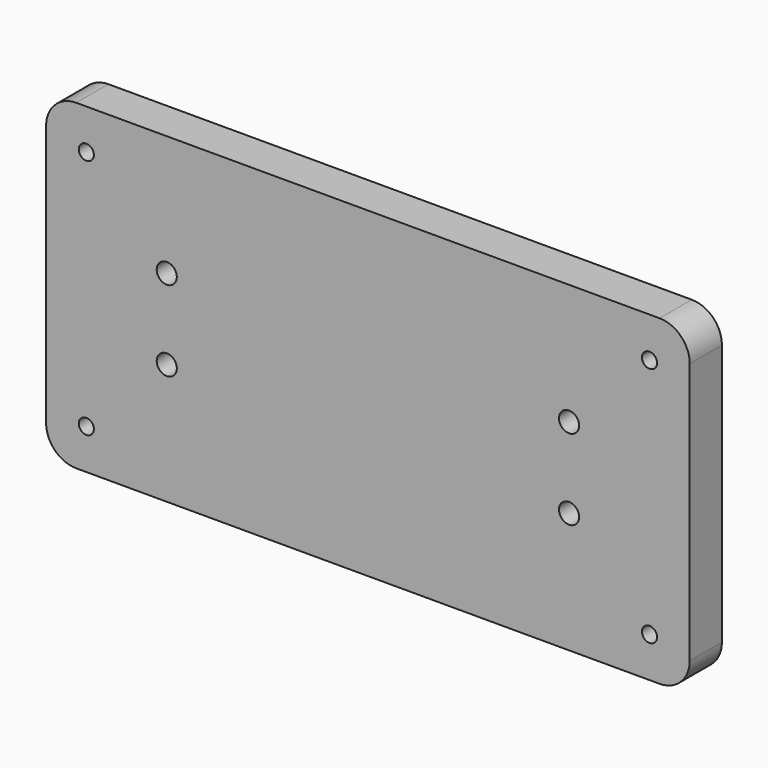
from build123d import *

# Parameters (mm, degrees)
F0_W     = 203.2
F0_H     = 101.6
F1_DEPTH = 12.7
F2_R     = 9.525
F4_D     = 4.7752
F6_D     = 6.35


with BuildPart() as f1:
    # F0 (on Front) → F1 (new body)
    with BuildSketch(Plane.XZ):
        with Locations((-101.6, 50.8)):
            Rectangle(F0_W, F0_H)
    extrude(amount=F1_DEPTH)

    # F2
    f2_edges = [f1.edges().sort_by_distance(p)[0] for p in [
        (-203.2, -6.35, 101.6),
        (-203.2, -6.35, 0),
        (0, -6.35, 101.6),
        (0, -6.35, 0),
    ]]
    fillet(f2_edges, radius=F2_R)

    # F4 (through all)
    with Locations(Plane.XZ.offset(12.7)):
        with Locations((-190.5, 88.9), (-190.5, 12.7), (-12.7, 12.7), (-12.7, 88.9)):
            Hole(F4_D / 2)

    # F6 (through all)
    with Locations(Plane.XZ.offset(12.7)):
        with Locations((-165.1, 63.5), (-165.1, 38.1), (-38.1, 38.1), (-38.1, 63.5)):
            Hole(F6_D / 2)


solid = f1.part
